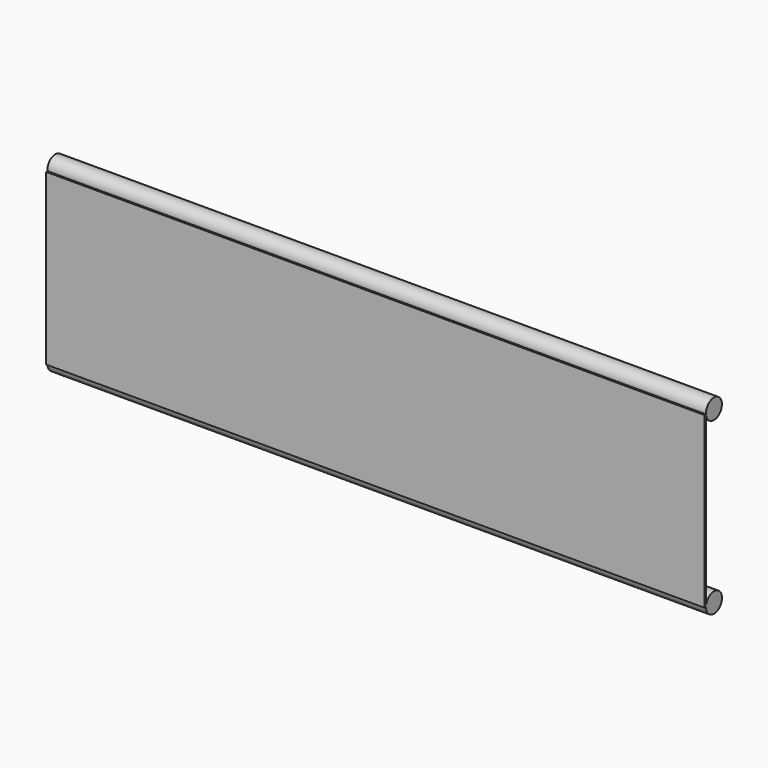
from build123d import *

# Parameters (mm, degrees)
F0_W     = 838.2
F0_H     = 215.9
F1_DEPTH = 2.032
F2_R     = 12.7
F3_DEPTH = 838.2


with BuildPart() as f1:
    # F0 (on Front) → F1 (new body)
    with BuildSketch(Plane.XZ):
        with Locations((125.344867, 7.397311)):
            Rectangle(F0_W, F0_H)
    extrude(amount=F1_DEPTH)


with BuildPart() as f3:
    # F2 (on face) → F3 (new body)
    with BuildSketch(Plane(origin=(-293.755133, 0, 0), x_dir=(0, -1, 0), z_dir=(-1, 0, 0))):
        with Locations((-12.7, -100.552689)):
            Circle(F2_R)
        with Locations((-12.7, 116.461396)):
            Circle(F2_R)
    extrude(amount=-F3_DEPTH)


solid = Compound([f1.part, f3.part])
